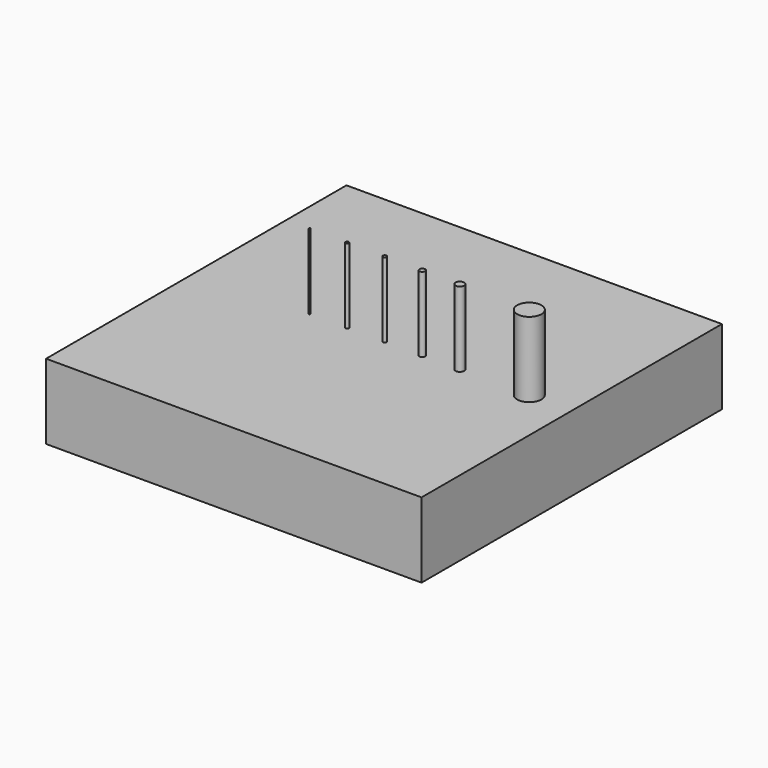
from build123d import *

# Parameters (mm, degrees)
F0_W     = 50
F0_H     = 50
F1_DEPTH = 10
F2_R     = 1.614837
F2_R_2   = 0.57009
F2_R_3   = 0.375751
F2_R_4   = 0.250755
F2_R_5   = 0.215103
F2_R_6   = 0.1
F3_DEPTH = 10


with BuildPart() as f1:
    # F0 (on Top) → F1 (new body)
    with BuildSketch(Plane.XY):
        Rectangle(F0_W, F0_H)
    extrude(amount=F1_DEPTH)

    # F2 (on face) → F3 (join)
    with BuildSketch(Plane.XY.offset(10)):
        with Locations((19.347541, 0)):
            Circle(F2_R)
        with Locations((10.1, 0)):
            Circle(F2_R_2)
        with Locations((5.1, 0)):
            Circle(F2_R_3)
        with Locations((0.1, 0)):
            Circle(F2_R_4)
        with Locations((-4.9, 0)):
            Circle(F2_R_5)
        with Locations((-9.9, 0)):
            Circle(F2_R_6)
    extrude(amount=F3_DEPTH)


solid = f1.part
